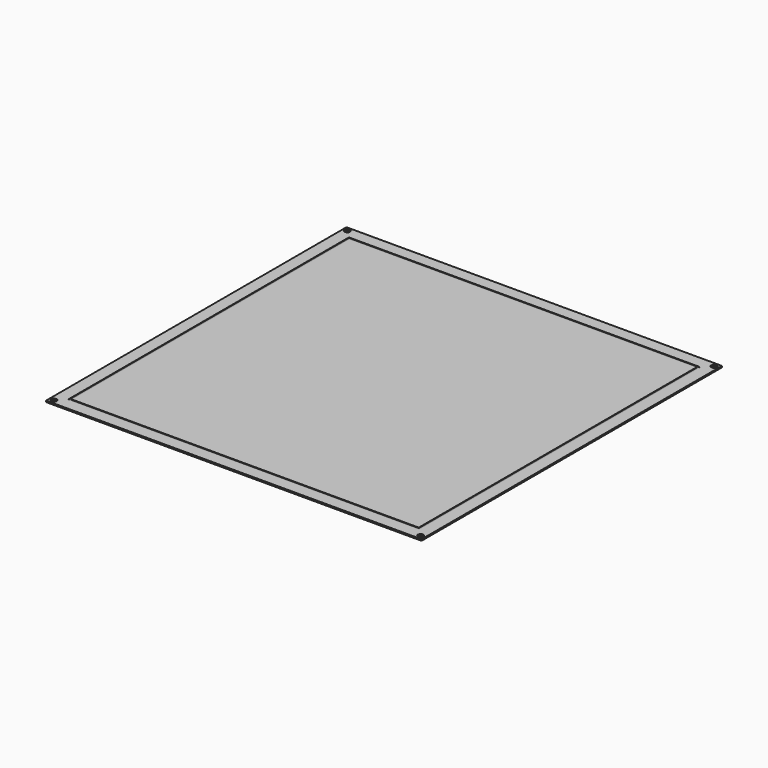
from build123d import *

# Parameters (mm, degrees)
F0_W     = 214
F0_H     = 214
F0_R     = 1.55
F1_DEPTH = 0.79375
F2_W     = 200
F2_H     = 200
F2_W_2   = 198
F2_H_2   = 198
F3_DEPTH = 0.25


with BuildPart() as f1:
    # F0 (on Top) → F1 (new body)
    with BuildSketch(Plane.XY):
        Rectangle(F0_W, F0_H)
        with Locations((-104.5, -104.5)):
            Circle(F0_R, mode=Mode.SUBTRACT)
        with Locations((104.5, -104.5)):
            Circle(F0_R, mode=Mode.SUBTRACT)
        with Locations((-104.5, 104.5)):
            Circle(F0_R, mode=Mode.SUBTRACT)
        with Locations((104.5, 104.5)):
            Circle(F0_R, mode=Mode.SUBTRACT)
    extrude(amount=F1_DEPTH)

    # F2 (on face) → F3 (cut, symmetric)
    with BuildSketch(Plane.XY.offset(0.79375)):
        Rectangle(F2_W, F2_H)
        Rectangle(F2_W_2, F2_H_2, mode=Mode.SUBTRACT)
    extrude(amount=F3_DEPTH, both=True, mode=Mode.SUBTRACT)


solid = f1.part
